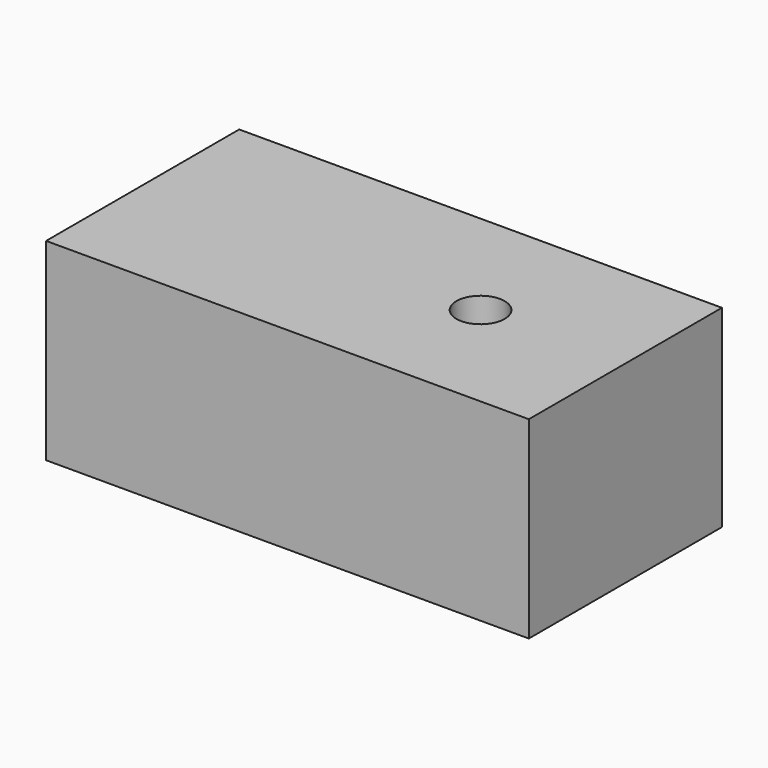
from build123d import *

# Parameters (mm, degrees)
F0_W           = 100
F0_H           = 50
F1_DEPTH       = 40
F3_D           = 8
F3_DEPTH       = 20
F3_CBORE_D     = 10
F3_CBORE_DEPTH = 10
F3_TIP         = 2.4034424761
F5_D           = 6
F5_DEPTH       = 20
F5_CBORE_D     = 8
F5_CBORE_DEPTH = 10
F5_TIP         = 1.8025818571


with BuildPart() as f1:
    # F0 (on Top) → F1 (new body)
    with BuildSketch(Plane.XY):
        with Locations((5.3602904081, -8.052177819)):
            Rectangle(F0_W, F0_H)
    extrude(amount=F1_DEPTH)

    # F3
    with Locations(Plane.XY.offset(40)):
        with Locations((25.3602904081, -8.052177819)):
            CounterBoreHole(F3_D / 2, F3_CBORE_D / 2, F3_CBORE_DEPTH, depth=F3_DEPTH)
            with Locations((0, 0, -(F3_DEPTH + F3_TIP / 2))):  # 118° drill point
                Cone(0, F3_D / 2, F3_TIP, mode=Mode.SUBTRACT)

    # F5
    with Locations(Plane(origin=(0, 0, 0), x_dir=(1, 0, 0), z_dir=(0, 0, -1))):
        with Locations((25.3602904081, 8.052177819)):
            CounterBoreHole(F5_D / 2, F5_CBORE_D / 2, F5_CBORE_DEPTH, depth=F5_DEPTH)
            with Locations((0, 0, -(F5_DEPTH + F5_TIP / 2))):  # 118° drill point
                Cone(0, F5_D / 2, F5_TIP, mode=Mode.SUBTRACT)


solid = f1.part
